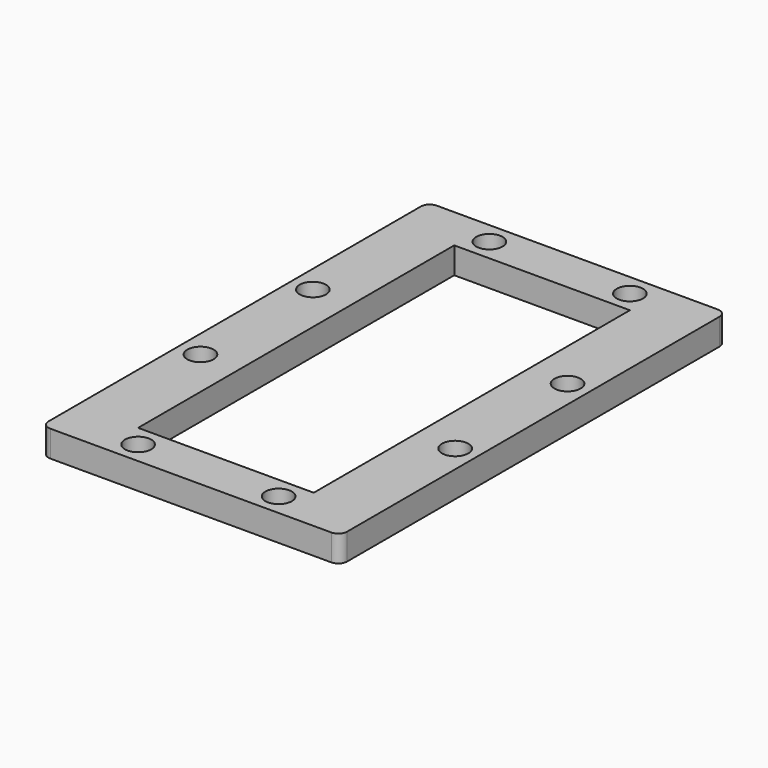
from build123d import *

# Parameters (mm, degrees)
F0_W     = 34
F0_H     = 55
F0_R     = 1.5
F0_W_2   = 20
F0_H_2   = 45
F1_DEPTH = 3
F2_R     = 1.5
F3_DEPTH = 5
F4_R     = 1


with BuildPart() as f1:
    # F0 (on Top) → F1 (new body)
    with BuildSketch(Plane.XY):
        Rectangle(F0_W, F0_H)
        with Locations((-8, -25)):
            Circle(F0_R, mode=Mode.SUBTRACT)
        with Locations((8, -25)):
            Circle(F0_R, mode=Mode.SUBTRACT)
        with Locations((-8, 25)):
            Circle(F0_R, mode=Mode.SUBTRACT)
        Rectangle(F0_W_2, F0_H_2, mode=Mode.SUBTRACT)
        with Locations((8, 25)):
            Circle(F0_R, mode=Mode.SUBTRACT)
    extrude(amount=F1_DEPTH)

    # F2 (on face) → F3 (cut)
    with BuildSketch(Plane.XY.offset(3)):
        with Locations((-14.5, 8)):
            Circle(F2_R)
        with Locations((14.5, 8)):
            Circle(F2_R)
        with Locations((-14.5, -8)):
            Circle(F2_R)
        with Locations((14.5, -8)):
            Circle(F2_R)
    extrude(amount=-F3_DEPTH, mode=Mode.SUBTRACT)

    # F4
    f4_edges = [f1.edges().sort_by_distance(p)[0] for p in [
        (-17, 27.5, 1.5),
        (17, 27.5, 1.5),
        (17, -27.5, 1.5),
        (-17, -27.5, 1.5),
    ]]
    fillet(f4_edges, radius=F4_R)


solid = f1.part
